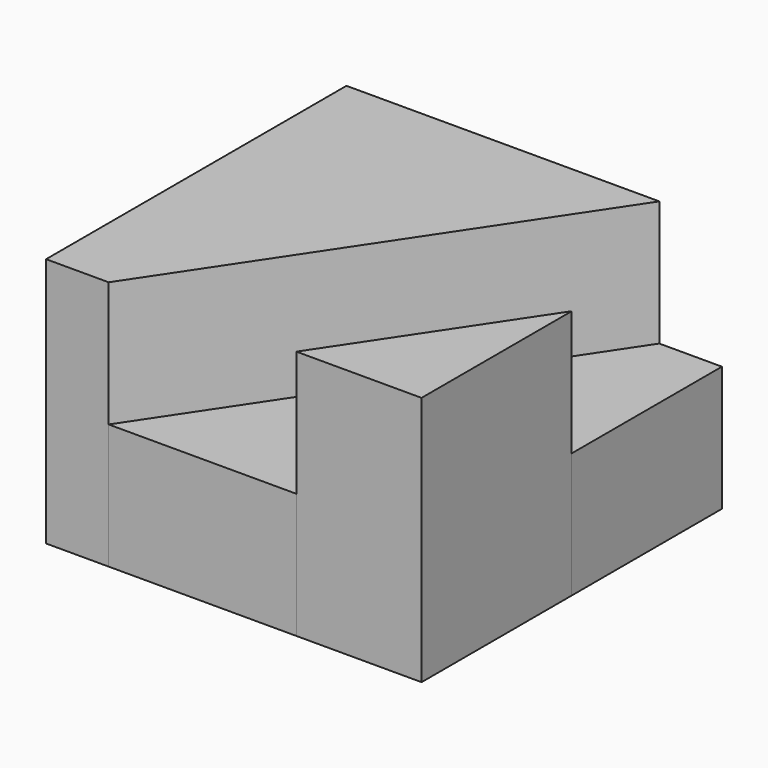
from build123d import *

# Parameters (mm, degrees)
F1_DEPTH = 50.8
F2_DEPTH = 25.4


with BuildPart() as f1:
    # F0 (on Top) → F1 (new body)
    with BuildSketch(Plane.XY):
        Polygon((33.481818, 22.897948), (8.081818, -15.202052), (33.481818, -15.202052), align=None)
        Polygon((-42.718182, 60.997948), (-42.718182, -15.202052), (-30.018182, -15.202052), (20.781818, 60.997948), align=None)
    extrude(amount=F1_DEPTH)


with BuildPart() as f2:
    # F0 (on Top) → F2 (new body)
    with BuildSketch(Plane.XY):
        Polygon((20.781818, 60.997948), (-30.018182, -15.202052), (8.081818, -15.202052), (33.481818, 22.897948), (33.481818, 60.997948), align=None)
    extrude(amount=F2_DEPTH)


solid = Compound([f1.part, f2.part])
